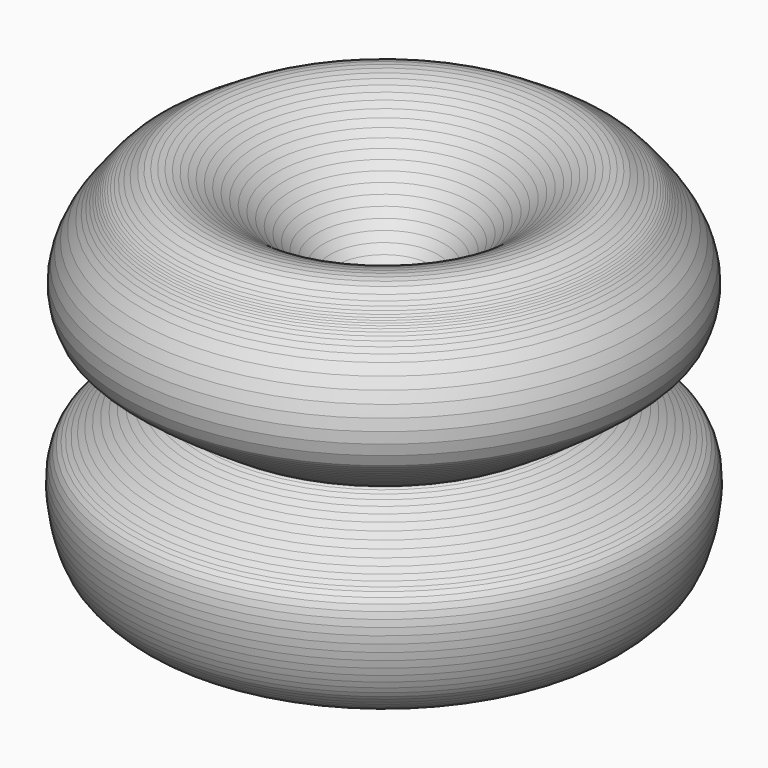
from build123d import *


with BuildPart() as f1:
    # F0 (on Front) → F1 (revolve)
    with BuildSketch(Plane.XZ):
        Polygon((-83.341058, 21.032826), (-86.163277, 17.317339), (-86.163277, -16.894962), (-83.511949, -20.046823), (-80.697984, -23.491596), (-77.732458, -27.199996), (-74.620857, -31.141314), (-71.371333, -35.289109), (-67.993895, -39.6145), (-64.493775, -44.089218), (-60.881641, -48.682021), (-57.162319, -53.367559), (-53.345207, -58.116343), (-49.438687, -62.899417), (-45.449109, -67.686834), (-41.386887, -72.451849), (-37.256847, -77.166343), (-33.069149, -81.799049), (-28.830143, -86.324846), (-24.548465, -90.712442), (-20.232497, -94.933389), (-15.888843, -98.961321), (-11.525885, -102.764742), (-7.152259, -106.317161), (-2.774315, -109.588681), (1.598549, -112.551591), (5.958459, -115.176706), (10.299319, -117.4353), (14.611477, -119.299761), (18.887313, -120.741211), (23.119207, -121.730668), (27.300047, -122.239126), (31.420435, -122.237779), (35.474529, -121.698918), (39.453185, -120.595111), (42.453179, -119.090313), (45.210603, -117.837661), (47.753143, -116.789022), (50.114835, -115.891894), (52.322603, -115.096773), (54.408959, -114.35273), (56.403113, -113.609755), (58.337831, -112.817554), (60.240799, -111.927284), (62.144021, -110.885351), (64.077215, -109.645323), (66.071369, -108.154114), (68.156455, -106.361382), (70.363969, -104.218359), (72.723121, -101.674549), (75.266931, -98.678873), (76.934441, -96.262825), (78.564613, -93.191203), (80.121887, -89.559003), (81.571465, -85.461983), (82.881851, -80.995926), (84.020279, -76.258039), (84.950427, -71.344155), (85.639529, -66.350286), (86.055581, -61.372648), (86.163277, -56.508015), (85.930359, -51.851687), (85.322537, -47.49993), (84.306791, -43.550484), (82.848831, -40.097075), (80.915637, -37.236298), (78.473681, -35.067367), (76.249403, -33.573339), (73.435591, -31.652337), (70.133591, -29.375989), (66.443479, -26.81544), (62.466347, -24.043005), (58.303287, -21.132673), (54.057677, -18.155818), (49.828577, -15.184755), (45.717841, -12.292203), (41.826053, -9.551568), (38.255575, -7.032371), (35.108007, -4.809617), (32.483171, -2.95468), (30.483429, -1.54117), (29.208857, -0.638175), (28.762325, -0.322453), (29.302329, 0.020447), (30.833441, 0.997585), (33.223327, 2.532482), (36.334827, 4.550004), (40.034591, 6.973951), (44.188253, 9.728835), (48.662463, 12.736957), (53.321585, 15.922879), (58.030491, 19.211138), (62.657863, 22.525076), (67.067557, 25.789763), (71.124699, 28.927654), (74.695177, 31.864148), (77.645387, 34.522283), (79.840709, 36.825022), (81.147031, 38.697789), (83.936205, 45.91873), (85.235669, 53.169947), (85.211031, 60.370339), (84.027137, 67.435603), (81.847309, 74.28291), (78.838679, 80.828769), (75.165077, 86.991038), (70.990841, 92.686505), (68.214113, 96.146976), (65.900427, 99.029622), (63.975107, 101.408357), (62.360175, 103.356791), (60.979431, 104.94833), (59.756929, 106.256201), (58.617485, 107.355742), (57.483375, 108.317919), (56.277637, 109.218832), (54.924325, 110.129701), (53.349271, 111.126397), (51.473735, 112.279557), (49.223549, 113.665889), (46.519719, 115.355751), (43.288331, 117.425851), (39.453185, 119.948071), (36.213415, 121.253606), (32.813625, 122.007986), (29.266769, 122.239126), (25.583007, 121.974991), (21.774277, 121.235826), (17.850993, 120.052186), (13.827125, 118.446906), (9.712325, 116.450466), (5.517515, 114.081941), (1.256665, 111.371507), (-3.060573, 108.345351), (-7.420737, 105.026816), (-11.815191, 101.443917), (-16.230473, 97.619922), (-20.655407, 93.583633), (-25.077547, 89.359867), (-29.487241, 84.973795), (-33.872297, 80.452341), (-38.220015, 75.819102), (-42.519473, 71.102347), (-46.759749, 66.327376), (-50.928397, 61.517886), (-55.015257, 56.703316), (-59.006359, 51.907542), (-62.892559, 47.155989), (-66.661411, 42.474998), (-70.301993, 37.890323), (-73.800919, 33.428051), (-77.148182, 29.113607), (-80.332809, 24.974169), align=None)
    revolve(axis=Axis((-86.163277, 0, 0.211188), (0, 0, 1)))


solid = f1.part
